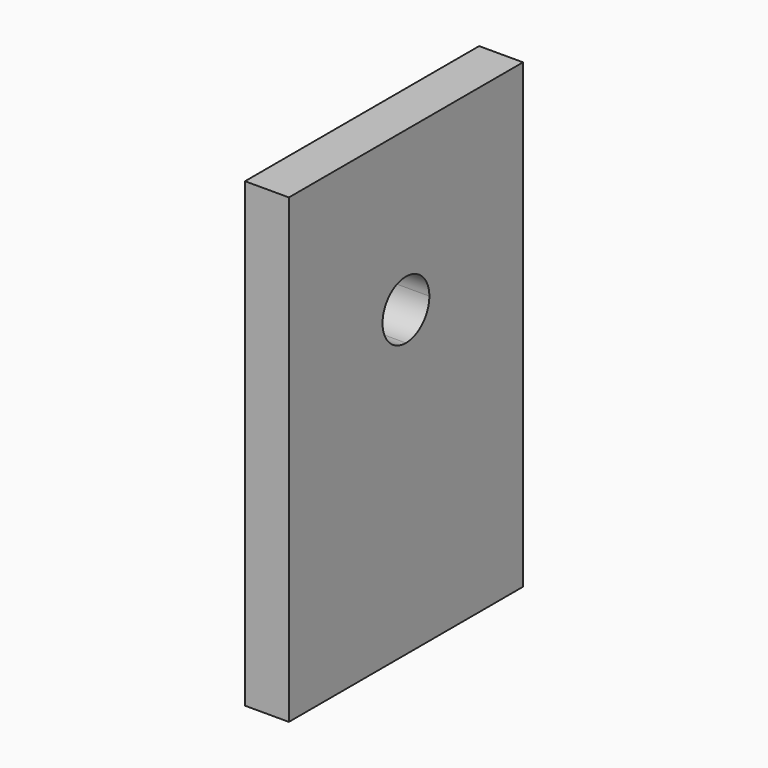
from build123d import *

# Parameters (mm, degrees)
F1_DEPTH = 7.62


with BuildPart() as f1:
    # F0 (on Right) → F1 (new body)
    with BuildSketch(Plane.YZ):
        with BuildLine():
            ThreePointArc((0, -5.08), (-5.08, 0), (0, 5.08))
            Line((0, 5.08), (0, 27.485684))
            Line((0, 27.485684), (-25.4, 27.485684))
            Line((-25.4, 27.485684), (-25.4, -52.66694))
            Line((-25.4, -52.66694), (0, -52.66694))
            Line((0, -52.66694), (0, -5.08))
        make_face()
        with BuildLine():
            ThreePointArc((0, 5.08), (3.592102, 3.592102), (5.08, 0))
            ThreePointArc((5.08, 0), (3.592102, -3.592102), (0, -5.08))
            Line((0, -5.08), (0, -52.66694))
            Line((0, -52.66694), (25.4, -52.66694))
            Line((25.4, -52.66694), (25.4, 27.485684))
            Line((25.4, 27.485684), (0, 27.485684))
            Line((0, 27.485684), (0, 5.08))
        make_face()
    extrude(amount=F1_DEPTH)


solid = f1.part
